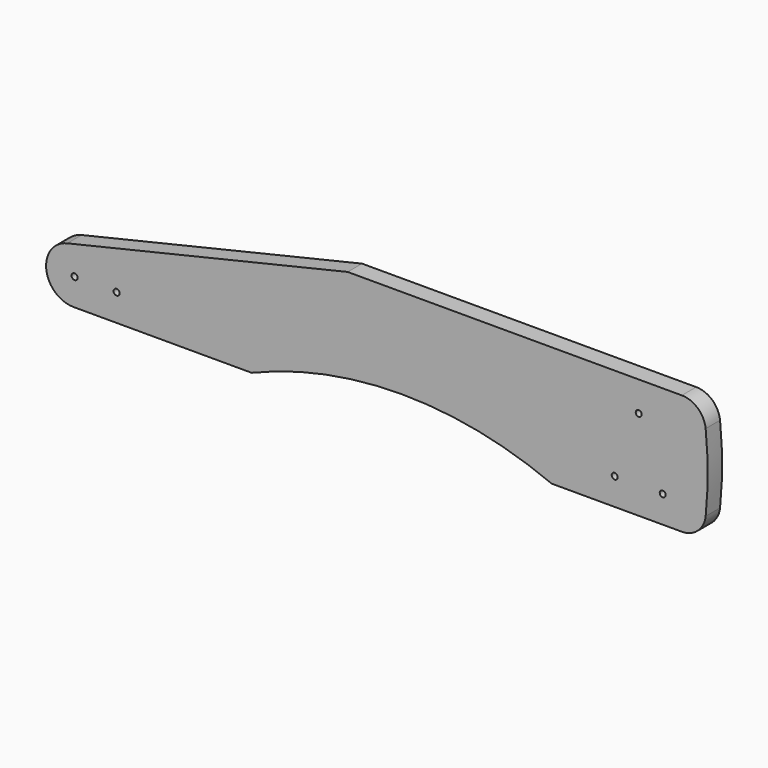
from build123d import *

# Parameters (mm, degrees)
F0_R     = 3.175
F1_DEPTH = 19.05


with BuildPart() as f1:
    # F0 (on Front) → F1 (new body)
    with BuildSketch(Plane.XZ):
        with BuildLine():
            ThreePointArc((-2.193175, 104.321429), (-10.475874, 120.498205), (-27.446963, 127))
            Line((-27.446963, 127), (-381, 127))
            Line((-381, 127), (-677.762466, 57.15))
            ThreePointArc((-677.762466, 57.15), (-699.89427, 25.620318), (-671.127329, 0))
            Line((-671.127329, 0), (-482.6, 0))
            ThreePointArc((-482.6, 0), (-323.85, 31.75), (-165.1, 0))
            Line((-165.1, 0), (-27.446963, 0))
            ThreePointArc((-27.446963, 0), (-10.475874, 6.501795), (-2.193175, 22.678571))
            ThreePointArc((-2.193175, 22.678571), (0, 63.5), (-2.193175, 104.321429))
        make_face()
        with Locations((-669.925, 28.575)):
            Circle(F0_R, mode=Mode.SUBTRACT)
        with Locations((-625.475, 28.575)):
            Circle(F0_R, mode=Mode.SUBTRACT)
        with Locations((-98.425, 28.6258)):
            Circle(F0_R, mode=Mode.SUBTRACT)
        with Locations((-47.625, 28.6258)):
            Circle(F0_R, mode=Mode.SUBTRACT)
        with Locations((-73.025, 95.3516)):
            Circle(F0_R, mode=Mode.SUBTRACT)
    extrude(amount=F1_DEPTH)


solid = f1.part
